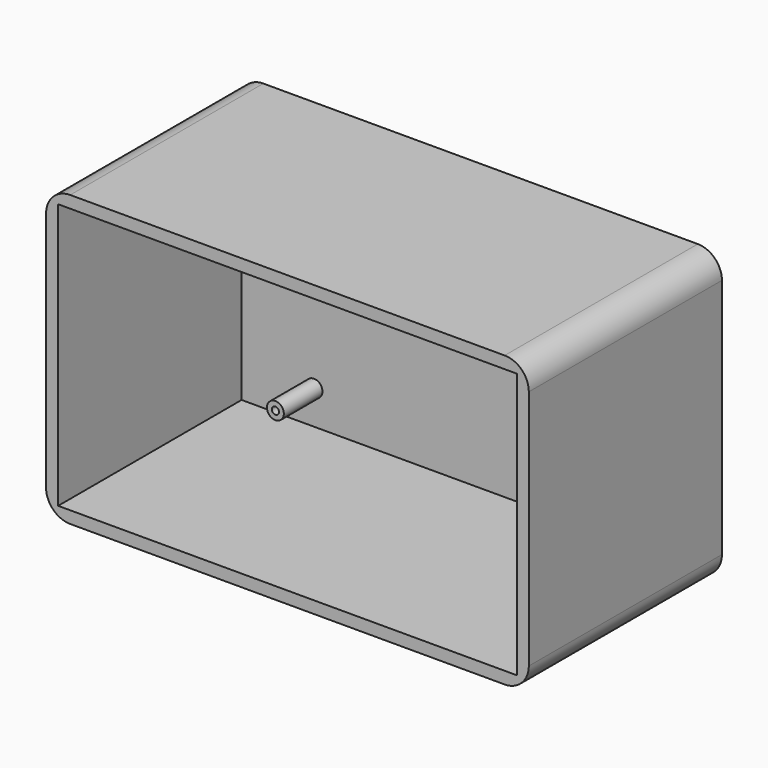
from build123d import *

# Parameters (mm, degrees)
F0_W     = 100
F0_H     = 60
F1_DEPTH = 50
F2_T     = -2.5
F3_R     = 1.75
F3_R_2   = 0.75
F4_DEPTH = 10
F5_R     = 5


with BuildPart() as f1:
    # F0 (on Front) → F1 (new body)
    with BuildSketch(Plane.XZ):
        with Locations((-64.083846, 18.250474)):
            Rectangle(F0_W, F0_H)
    extrude(amount=F1_DEPTH)

    # F2
    f2_openings = [f1.faces().sort_by_distance(p)[0] for p in [
        (-64.083846, -50, 18.250474),
    ]]
    offset(amount=F2_T, openings=f2_openings)

    # F3 (on face) → F4 (join)
    with BuildSketch(Plane.XZ.offset(2.5)):
        with Locations((-96.083846, 38.250474)):
            Circle(F3_R)
        with Locations((-96.083846, 38.250474)):
            Circle(F3_R_2, mode=Mode.SUBTRACT)
        with Locations((-31.583846, 38.250474)):
            Circle(F3_R)
        with Locations((-31.583846, 38.250474)):
            Circle(F3_R_2, mode=Mode.SUBTRACT)
        with Locations((-96.583846, -2.249526)):
            Circle(F3_R)
        with Locations((-96.583846, -2.249526)):
            Circle(F3_R_2, mode=Mode.SUBTRACT)
        with Locations((-31.583846, -1.749526)):
            Circle(F3_R)
        with Locations((-31.583846, -1.749526)):
            Circle(F3_R_2, mode=Mode.SUBTRACT)
    extrude(amount=F4_DEPTH)

    # F5
    f5_edges = [f1.edges().sort_by_distance(p)[0] for p in [
        (-114.083846, -25, 48.250474),
        (-114.083846, -25, -11.749526),
        (-14.083846, -25, -11.749526),
        (-14.083846, -25, 48.250474),
    ]]
    fillet(f5_edges, radius=F5_R)


solid = f1.part
